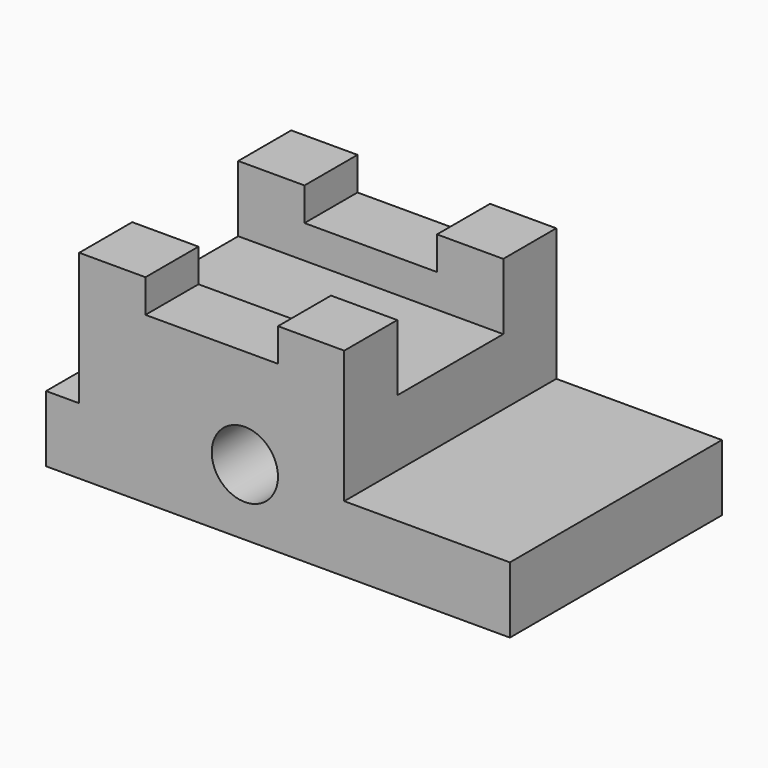
from build123d import *

# Parameters (mm, degrees)
F0_W      = 88.9
F0_H      = 38.1
F1_DEPTH  = 50.8
F2_W      = 31.75
F2_H      = 25.4
F3_DEPTH  = 50.8
F4_W      = 25.4
F4_H      = 6.35
F5_DEPTH  = 50.8
F6_W      = 6.35
F6_H      = 25.4
F7_DEPTH  = 50.8
F8_W      = 25.4
F8_H      = 12.7
F9_DEPTH  = 50.8
F10_R     = 6.35
F11_DEPTH = 50.8


with BuildPart() as f1:
    # F0 (on Front) → F1 (new body)
    with BuildSketch(Plane.XZ):
        Rectangle(F0_W, F0_H)
    extrude(amount=F1_DEPTH)

    # F2 (on face) → F3 (cut)
    with BuildSketch(Plane.XZ.offset(50.8)):
        with Locations((28.575, 6.35)):
            Rectangle(F2_W, F2_H)
    extrude(amount=-F3_DEPTH, mode=Mode.SUBTRACT)

    # F4 (on face) → F5 (cut)
    with BuildSketch(Plane.XZ.offset(50.8)):
        with Locations((-12.7, 15.875)):
            Rectangle(F4_W, F4_H)
    extrude(amount=-F5_DEPTH, mode=Mode.SUBTRACT)

    # F6 (on face) → F7 (cut)
    with BuildSketch(Plane.XZ.offset(50.8)):
        with Locations((-41.275, 6.35)):
            Rectangle(F6_W, F6_H)
    extrude(amount=-F7_DEPTH, mode=Mode.SUBTRACT)

    # F8 (on face) → F9 (cut)
    with BuildSketch(Plane.YZ.offset(12.7)):
        with Locations((-25.4, 12.7)):
            Rectangle(F8_W, F8_H)
    extrude(amount=-F9_DEPTH, mode=Mode.SUBTRACT)

    # F10 (on face) → F11 (cut)
    with BuildSketch(Plane.XZ.offset(50.8)):
        with Locations((-6.35, -6.35)):
            Circle(F10_R)
    extrude(amount=-F11_DEPTH, mode=Mode.SUBTRACT)


solid = f1.part
